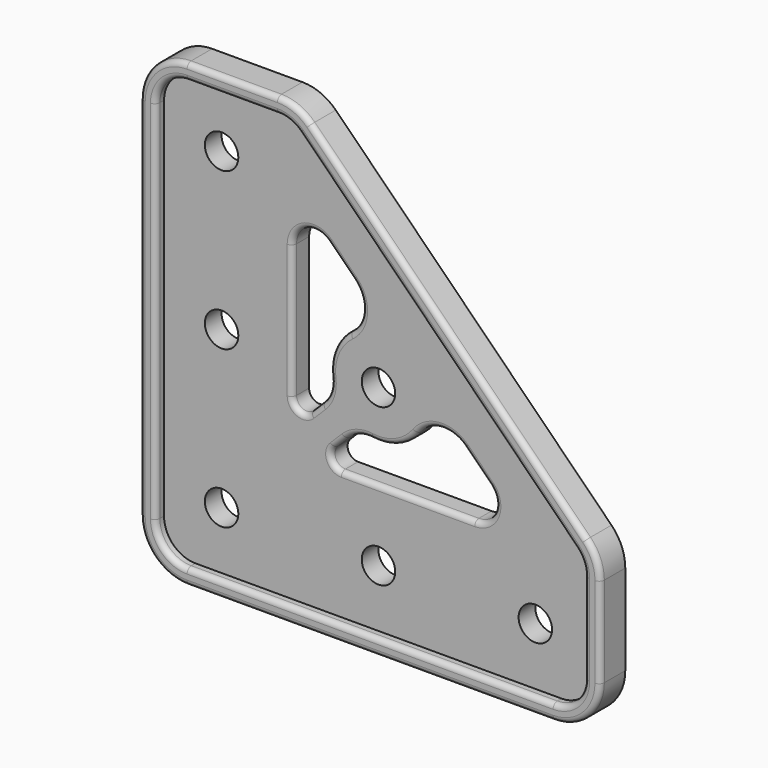
from build123d import *

# Parameters (mm, degrees)
F0_R     = 1.6
F1_DEPTH = 2
F3_DEPTH = 2.001
F5_DEPTH = 1
F6_R     = 0.5


with BuildPart() as f1:
    # F0 (on Front) → F1 (new body)
    with BuildSketch(Plane.XZ):
        with BuildLine():
            ThreePointArc((0, 4.5), (1.318019, 1.318019), (4.5, 0))
            Line((4.5, 0), (39.5, 0))
            ThreePointArc((39.5, 0), (42.681981, 1.318019), (44, 4.5))
            Line((44, 4.5), (44, 13.136039))
            ThreePointArc((44, 13.136039), (43.657458, 14.858114), (42.681981, 16.318019))
            Line((42.681981, 16.318019), (29.5, 29.5))
            Line((29.5, 29.5), (16.318019, 42.681981))
            ThreePointArc((16.318019, 42.681981), (14.858114, 43.657458), (13.136039, 44))
            Line((13.136039, 44), (4.5, 44))
            ThreePointArc((4.5, 44), (1.318019, 42.681981), (0, 39.5))
            Line((0, 39.5), (0, 4.5))
        make_face()
        with Locations((7, 7)):
            Circle(F0_R, mode=Mode.SUBTRACT)
        with Locations((22, 7)):
            Circle(F0_R, mode=Mode.SUBTRACT)
        with Locations((37, 7)):
            Circle(F0_R, mode=Mode.SUBTRACT)
        with Locations((7, 22)):
            Circle(F0_R, mode=Mode.SUBTRACT)
        with Locations((7, 37)):
            Circle(F0_R, mode=Mode.SUBTRACT)
        with Locations((22, 22)):
            Circle(F0_R, mode=Mode.SUBTRACT)
    extrude(amount=F1_DEPTH)

    # F2 (on Front) → F3 (cut, through all)
    with BuildSketch(Plane.XZ):
        with BuildLine():
            ThreePointArc((31.20675, 13.772435), (33.054509, 15.007068), (32.620963, 17.186649))
            Line((32.620963, 17.186649), (30.220545, 19.587067))
            ThreePointArc((30.220545, 19.587067), (27.880232, 20.457743), (25.691636, 19.255583))
            ThreePointArc((25.691636, 19.255583), (23.783316, 17.759743), (21.379509, 17.442041))
            ThreePointArc((21.379509, 17.442041), (20.016778, 17.312365), (18.853521, 16.590779))
            Line((18.853521, 16.590779), (17.742284, 15.479542))
            ThreePointArc((17.742284, 15.479542), (17.525511, 14.389752), (18.44939, 13.772435))
            Line((18.44939, 13.772435), (31.20675, 13.772435))
        make_face()
        with BuildLine():
            ThreePointArc((16.590779, 18.853521), (17.312365, 20.016778), (17.442041, 21.379509))
            ThreePointArc((17.442041, 21.379509), (17.759743, 23.783316), (19.255583, 25.691636))
            ThreePointArc((19.255583, 25.691636), (20.457743, 27.880232), (19.587067, 30.220545))
            Line((19.587067, 30.220545), (17.186649, 32.620963))
            ThreePointArc((17.186649, 32.620963), (15.007068, 33.054509), (13.772435, 31.20675))
            Line((13.772435, 31.20675), (13.772435, 18.44939))
            ThreePointArc((13.772435, 18.44939), (14.389752, 17.525511), (15.479542, 17.742284))
            Line((15.479542, 17.742284), (16.590779, 18.853521))
        make_face()
    extrude(amount=F3_DEPTH, mode=Mode.SUBTRACT)

    # F4 (on face) → F5 (join)
    with BuildSketch(Plane.XZ.offset(2)):
        with BuildLine():
            Line((0, 39.5), (0, 4.5))
            ThreePointArc((0, 4.5), (1.318019, 1.318019), (4.5, 0))
            Line((4.5, 0), (39.5, 0))
            ThreePointArc((39.5, 0), (42.681981, 1.318019), (44, 4.5))
            Line((44, 4.5), (44, 13.136039))
            ThreePointArc((44, 13.136039), (43.657458, 14.858114), (42.681981, 16.318019))
            Line((42.681981, 16.318019), (29.5, 29.5))
            Line((29.5, 29.5), (16.318019, 42.681981))
            ThreePointArc((16.318019, 42.681981), (14.858114, 43.657458), (13.136039, 44))
            Line((13.136039, 44), (4.5, 44))
            ThreePointArc((4.5, 44), (1.318019, 42.681981), (0, 39.5))
        make_face()
        with BuildLine():
            ThreePointArc((41.62132, 15.257359), (42.271639, 14.284089), (42.5, 13.136039))
            Line((42.5, 13.136039), (42.5, 4.5))
            ThreePointArc((42.5, 4.5), (41.62132, 2.37868), (39.5, 1.5))
            Line((39.5, 1.5), (4.5, 1.5))
            ThreePointArc((4.5, 1.5), (2.37868, 2.37868), (1.5, 4.5))
            Line((1.5, 4.5), (1.5, 39.5))
            ThreePointArc((1.5, 39.5), (2.37868, 41.62132), (4.5, 42.5))
            Line((4.5, 42.5), (13.136039, 42.5))
            ThreePointArc((13.136039, 42.5), (14.284089, 42.271639), (15.257359, 41.62132))
            Line((15.257359, 41.62132), (28.43934, 28.43934))
            Line((28.43934, 28.43934), (41.62132, 15.257359))
        make_face(mode=Mode.SUBTRACT)
    extrude(amount=F5_DEPTH)

    # F6
    f6_edges = [f1.edges().sort_by_distance(p)[0] for p in [
        (1.5, -3, 22),
        (0, -3, 22),
        (20.016778, -2, 17.312365),
        (17.312365, -2, 20.016778),
    ]]
    fillet(f6_edges, radius=F6_R)


solid = f1.part
